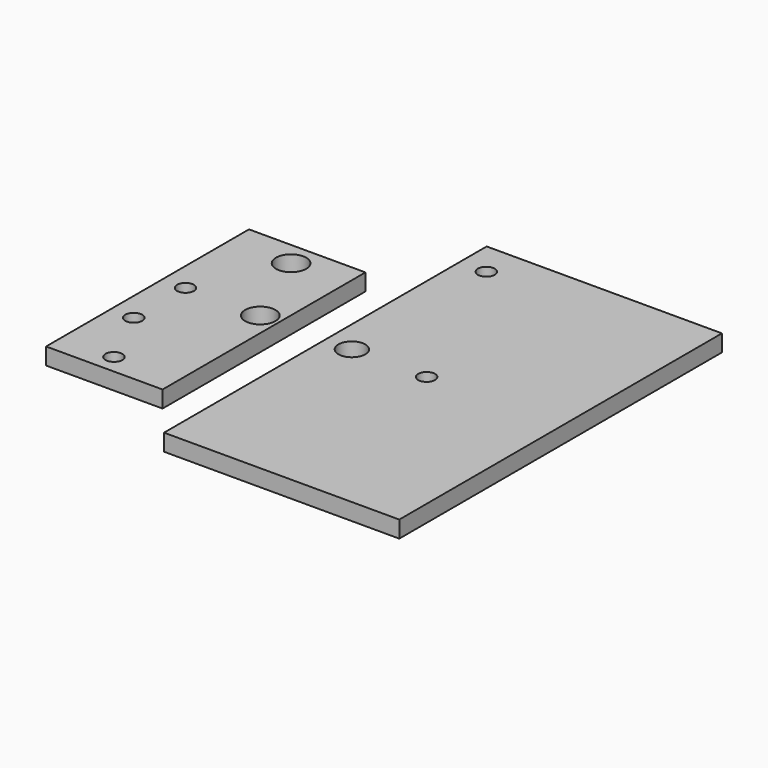
from build123d import *

# Parameters (mm, degrees)
F3_W      = 34.657259
F3_H      = 75.46364
F9_DEPTH  = 5
F6_R      = 2.5
F10_DEPTH = 25
F7_R      = 2.5
F11_DEPTH = 25
F4_R      = 4.5
F12_DEPTH = 25
F0_W      = 70
F0_H      = 120
F13_DEPTH = 5
F1_R      = 4
F14_DEPTH = 25
F5_R      = 2.5
F15_DEPTH = 25
F2_R      = 2.5
F16_DEPTH = 25
F17_DEPTH = 25
F8_R      = 4.5
F18_DEPTH = 25
F19_R     = 2.5
F20_DEPTH = 25


with BuildPart() as f9:
    # F3 (on Top) → F9 (new body)
    with BuildSketch(Plane.XY):
        with Locations((-51.169356, -5.521067)):
            Rectangle(F3_W, F3_H)
    extrude(amount=F9_DEPTH)

    # F6 (on face) → F10 (cut)
    with BuildSketch(Plane.XY):
        with Locations((-61.614193, 0)):
            Circle(F6_R)
    extrude(amount=F10_DEPTH, mode=Mode.SUBTRACT)

    # F7 (on Top) → F11 (cut)
    with BuildSketch(Plane.XY):
        with Locations((-61.61419, -19.25)):
            Circle(F7_R)
    extrude(amount=-F11_DEPTH, mode=Mode.SUBTRACT)

    # F4 (on face) → F12 (cut)
    with BuildSketch(Plane.XY):
        with Locations((-39.364193, 0)):
            Circle(F4_R)
    extrude(amount=F12_DEPTH, mode=Mode.SUBTRACT)

    # F7 (on Top) → F17 (cut)
    with BuildSketch(Plane.XY):
        with Locations((-61.61419, -19.25)):
            Circle(F7_R)
    extrude(amount=F17_DEPTH, mode=Mode.SUBTRACT)

    # F8 (on Top) → F18 (cut)
    with BuildSketch(Plane.XY):
        with Locations((-50.206818, 25)):
            Circle(F8_R)
    extrude(amount=F18_DEPTH, mode=Mode.SUBTRACT)

    # F19 (on Top) → F20 (cut)
    with BuildSketch(Plane.XY):
        with Locations((-52.89399, -37.526231)):
            Circle(F19_R)
    extrude(amount=F20_DEPTH, mode=Mode.SUBTRACT)


with BuildPart() as f13:
    # F0 (on Top) → F13 (new body)
    with BuildSketch(Plane.XY):
        with Locations((15, 0)):
            Rectangle(F0_W, F0_H)
    extrude(amount=F13_DEPTH)

    # F1 (on face) → F14 (cut)
    with BuildSketch(Plane.XY):
        with Locations((-12.114193, 0)):
            Circle(F1_R)
    extrude(amount=F14_DEPTH, mode=Mode.SUBTRACT)

    # F5 (on face) → F15 (cut)
    with BuildSketch(Plane.XY):
        with Locations((-12.11419, 50)):
            Circle(F5_R)
    extrude(amount=F15_DEPTH, mode=Mode.SUBTRACT)

    # F2 (on face) → F16 (cut)
    with BuildSketch(Plane.XY):
        with Locations((10.135807, 0)):
            Circle(F2_R)
    extrude(amount=F16_DEPTH, mode=Mode.SUBTRACT)


solid = Compound([f9.part, f13.part])
